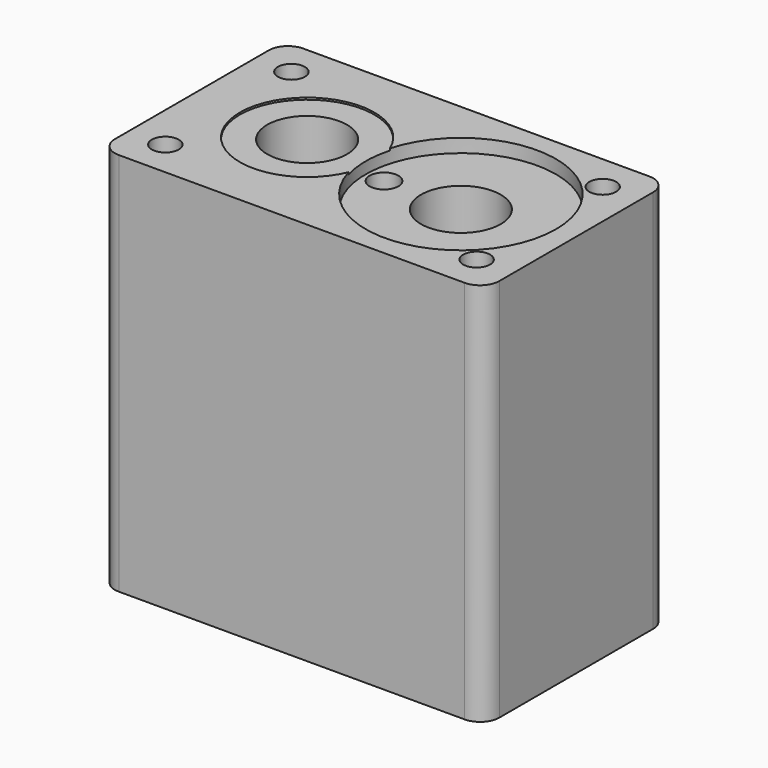
from build123d import *

# Parameters (mm, degrees)
SKETCH041_W     = 40
SKETCH041_H     = 24
PAD012_DEPTH    = 40
SKETCH042_R     = 4.15
HOLE017_DEPTH   = 50
SKETCH043_R     = 9.9
POCKET012_DEPTH = 1.4
POCKET021_DEPTH = 6.25
SKETCH066_R     = 1.4
HOLE026_DEPTH   = 50
SKETCH067_R     = 1.5
HOLE027_DEPTH   = 50
SKETCH068_R     = 7
POCKET022_DEPTH = 0.2
FILLET024_R     = 2


with BuildPart() as part:
    # Sketch041 → Pad012 (new body)
    with BuildSketch(Plane.XY):
        Rectangle(SKETCH041_W, SKETCH041_H)
    extrude(amount=PAD012_DEPTH)

    # Sketch042 (on Face6 of Pad012) → Hole017 (cut)
    with BuildSketch(Plane.XY.offset(40)):
        with Locations((8, 0)):
            Circle(SKETCH042_R)
    hole017 = extrude(amount=-HOLE017_DEPTH, mode=Mode.SUBTRACT)

    # Mirrored019: Hole017 across Sketch042 V_Axis
    add(hole017.mirror(Plane(origin=(0, 0, 40), x_dir=(0, 0, 1), z_dir=(1, 0, 0))), mode=Mode.SUBTRACT)

    # Sketch043 (on Face5 of Mirrored019) → Pocket012 (cut)
    with BuildSketch(Plane.XY.offset(40)):
        with Locations((8, 0)):
            Circle(SKETCH043_R)
    extrude(amount=-POCKET012_DEPTH, mode=Mode.SUBTRACT)

    # Sketch065 (on Face4 of Pocket012) → Pocket021 (cut)
    with BuildSketch(Plane(origin=(0, 0, 0), x_dir=(1, 0, 0), z_dir=(0, 0, -1))):
        Polygon((14.495191, 3.75), (8, 7.5), (1.504809, 3.75), (1.504809, -3.75), (8, -7.5), (14.495191, -3.75), align=None)
    pocket021 = extrude(amount=-POCKET021_DEPTH, mode=Mode.SUBTRACT)

    # Mirrored029: Pocket021 across Sketch065 V_Axis
    add(pocket021.mirror(Plane(origin=(0, 0, 0), x_dir=(0, 0, -1), z_dir=(1, 0, 0))), mode=Mode.SUBTRACT)

    # Sketch066 (on Face4 of Mirrored029) → Hole026 (cut)
    with BuildSketch(Plane(origin=(0, 0, 0), x_dir=(1, 0, 0), z_dir=(0, 0, -1))):
        with Locations((-16.2, 8.2)):
            Circle(SKETCH066_R)
        with Locations((-16.2, -8.2)):
            Circle(SKETCH066_R)
        with Locations((16.2, 8.2)):
            Circle(SKETCH066_R)
        with Locations((16.2, -8.2)):
            Circle(SKETCH066_R)
    extrude(amount=-HOLE026_DEPTH, mode=Mode.SUBTRACT)

    # Sketch067 (on Face4 of Hole026) → Hole027 (cut)
    with BuildSketch(Plane(origin=(0, 0, 0), x_dir=(1, 0, 0), z_dir=(0, 0, -1))):
        Circle(SKETCH067_R)
    extrude(amount=-HOLE027_DEPTH, mode=Mode.SUBTRACT)

    # Sketch068 (on Face5 of Hole027) → Pocket022 (cut)
    with BuildSketch(Plane.XY.offset(40)):
        with Locations((-8, 0)):
            Circle(SKETCH068_R)
    extrude(amount=-POCKET022_DEPTH, mode=Mode.SUBTRACT)

    # Fillet024
    fillet024_edges = [part.edges().sort_by_distance(p)[0] for p in [
        (20, 12, 20),
        (-20, 12, 20),
        (20, -12, 20),
        (-20, -12, 20),
    ]]
    fillet(fillet024_edges, radius=FILLET024_R)


solid = part.part
